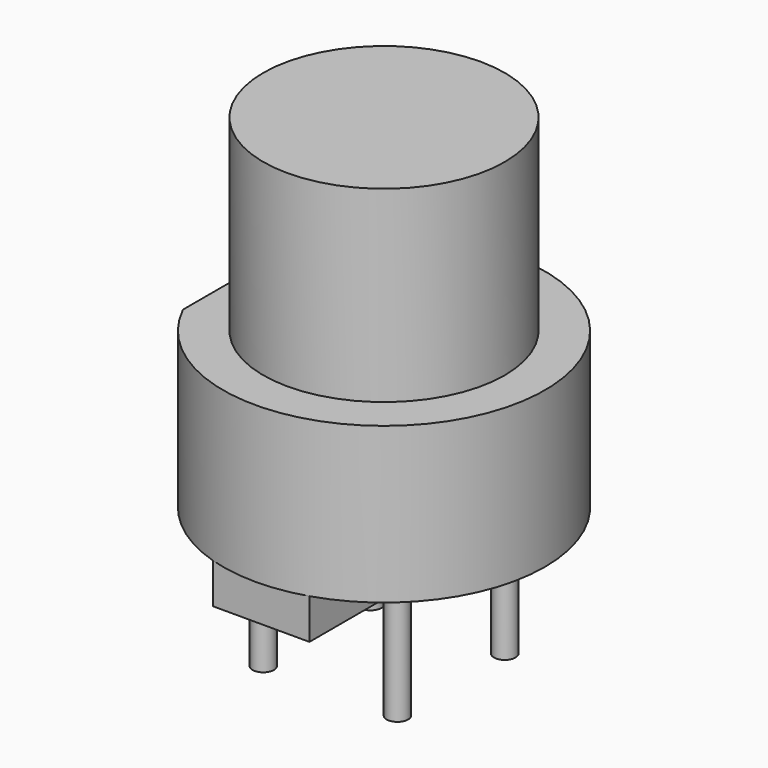
from build123d import *

# Parameters (mm, degrees)
SKETCH_R     = 6
PAD_DEPTH    = 5.8
SKETCH001_R  = 4.5
PAD001_DEPTH = 7
SKETCH002_W  = 0.6
SKETCH002_H  = 12
POCKET_DEPTH = 6
SKETCH003_R  = 0.4
PAD002_DEPTH = 5
SKETCH004_W  = 3.6
SKETCH004_H  = 11.44727
PAD003_DEPTH = 1.5


with BuildPart() as part:
    # Sketch → Pad (new body)
    with BuildSketch(Plane.XY):
        Circle(SKETCH_R)
    extrude(amount=PAD_DEPTH)

    # Sketch001 → Pad001 (new body)
    with BuildSketch(Plane.XY.offset(5.8)):
        Circle(SKETCH001_R)
    extrude(amount=PAD001_DEPTH)

    # Sketch002 → Pocket (cut)
    with BuildSketch(Plane.XY.offset(5.8)):
        with Locations((-5.7, 0)):
            Rectangle(SKETCH002_W, SKETCH002_H)
    extrude(amount=-POCKET_DEPTH, mode=Mode.SUBTRACT)

    # Sketch003 → Pad002 (new body)
    with BuildSketch(Plane(origin=(0, 0, 0), x_dir=(1, 0, 0), z_dir=(0, 0, -1))):
        with Locations((-2.5, 2.5)):
            Circle(SKETCH003_R)
        with Locations((2.5, 2.5)):
            Circle(SKETCH003_R)
        with Locations((-2.5, -2.5)):
            Circle(SKETCH003_R)
        with Locations((2.5, -2.5)):
            Circle(SKETCH003_R)
    extrude(amount=PAD002_DEPTH)

    # Sketch004 → Pad003 (new body)
    with BuildSketch(Plane(origin=(0, 0, 0), x_dir=(1, 0, 0), z_dir=(0, 0, -1))):
        Rectangle(SKETCH004_W, SKETCH004_H)
    extrude(amount=PAD003_DEPTH)


solid = part.part
